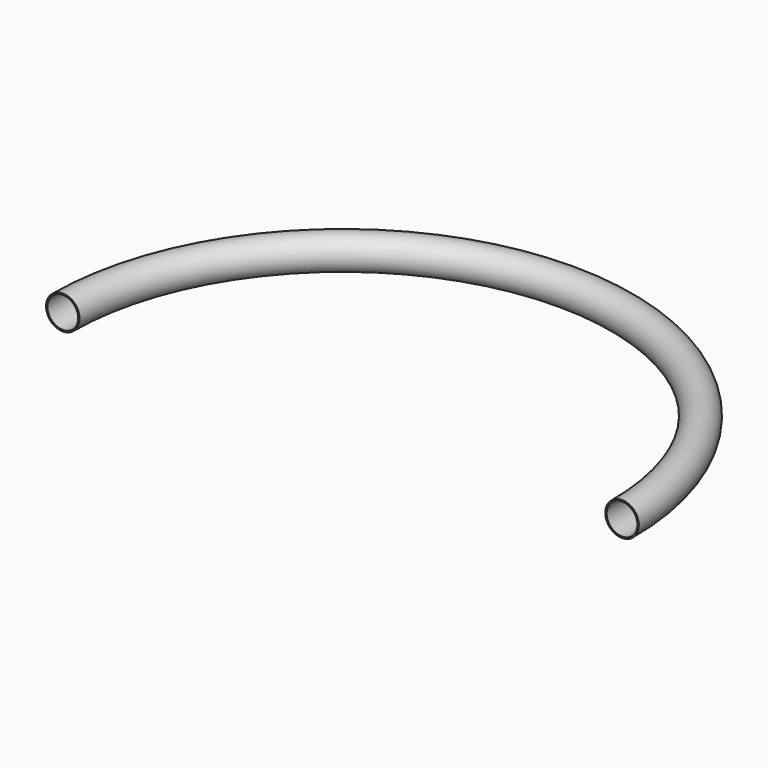
from build123d import *

# Parameters (mm, degrees)
F1_R   = 12
F1_R_2 = 11


with BuildPart() as f2:
    # F2: sweep along a path in F0
    with BuildLine(Plane.XY) as f2_path:
        ThreePointArc((200, 0), (0, 200), (-200, 0))
    # F1 (on Front) → F2 (sweep)
    with BuildSketch(Plane.XZ):
        with Locations((-200, 0)):
            Circle(F1_R)
        with Locations((-200, 0)):
            Circle(F1_R_2, mode=Mode.SUBTRACT)
    sweep(path=f2_path.line)


solid = f2.part
